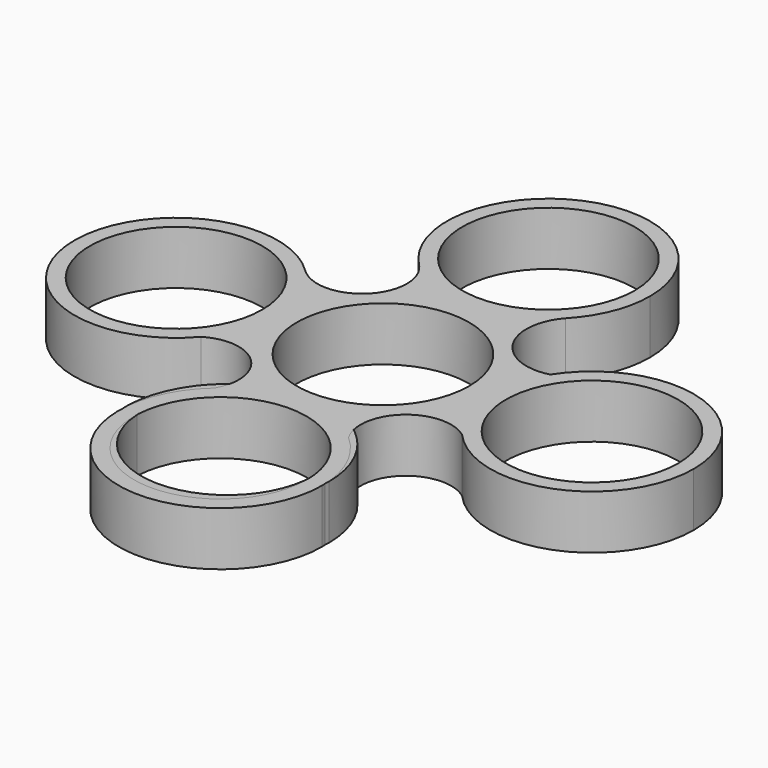
from build123d import *

# Parameters (mm, degrees)
F1_R     = 11.2
F2_DEPTH = 7
F0_R     = 11.2
F3_DEPTH = 7
F4_DEPTH = 7


with BuildPart() as f2:
    # F1 (on Top) → F2 (new body)
    with BuildSketch(Plane.XY):
        with BuildLine():
            ThreePointArc((-10.5489487054, -17.3434656757), (-4.1829342027, -37.7978862811), (13.2, -25.2781793574))
            ThreePointArc((13.2, -25.2781793574), (12.6587691404, -21.5371148232), (11.0794600228, -18.1028350728))
            ThreePointArc((11.0794600228, -18.1028350728), (9.4155916224, -16.8263147129), (8.3254465086, -15.0347941536))
            ThreePointArc((8.3254465086, -15.0347941536), (-0.2734968825, -12.0810130155), (-8.7426820596, -15.3885125074))
            ThreePointArc((-8.7426820596, -15.3885125074), (-9.5323363151, -16.4708373599), (-10.5489487054, -17.3434656757))
        make_face()
        with Locations((0, -25.2781793574)):
            Circle(F1_R, mode=Mode.SUBTRACT)
        with BuildLine():
            ThreePointArc((8.3254465086, -15.0347941536), (9.4155916224, -16.8263147129), (11.0794600228, -18.1028350728))
            ThreePointArc((11.0794600228, -18.1028350728), (9.8229739969, -16.4606297059), (8.3254465086, -15.0347941536))
        make_face()
        with BuildLine():
            ThreePointArc((-8.7426820596, -15.3885125074), (-9.6952160814, -16.3203456274), (-10.5489487054, -17.3434656757))
            ThreePointArc((-10.5489487054, -17.3434656757), (-9.5323363151, -16.4708373599), (-8.7426820596, -15.3885125074))
        make_face()
    extrude(amount=F2_DEPTH)


with BuildPart() as f2b:
    # F0 (on Top) → F2, piece 2 (new body)
    with BuildSketch(Plane.XY):
        with BuildLine():
            ThreePointArc((0, -13.2), (9.3338095117, -9.3338095117), (13.2, 0))
            ThreePointArc((13.2, 0), (12.3502529943, 4.6595333433), (9.9104165185, 8.7191538826))
            ThreePointArc((9.9104165185, 8.7191538826), (9.6502404629, 8.9831892619), (9.4054850115, 9.2615793307))
            ThreePointArc((9.4054850115, 9.2615793307), (-12.1756487951, 5.0983895906), (0, -13.2))
        make_face()
        Circle(F0_R, mode=Mode.SUBTRACT)
        with BuildLine():
            ThreePointArc((9.9104165185, 8.7191538826), (12.3502529943, 4.6595333433), (13.2, 0))
            ThreePointArc((13.2, 0), (9.3338095117, -9.3338095117), (0, -13.2))
            ThreePointArc((0, -13.2), (4.6487513187, -14.045684512), (8.701839457, -16.4743770943))
            ThreePointArc((8.701839457, -16.4743770943), (9.8552869894, -9.1053702708), (17.3070911958, -8.783940894))
            ThreePointArc((17.3070911958, -8.783940894), (14.0020834746, -1.0515702669), (16.0370673001, 7.1075640243))
            ThreePointArc((16.0370673001, 7.1075640243), (12.7649302451, 7.119536543), (9.9104165185, 8.7191538826))
        make_face()
        with BuildLine():
            ThreePointArc((9.4054850115, 9.2615793307), (9.6502404629, 8.9831892619), (9.9104165185, 8.7191538826))
            ThreePointArc((9.9104165185, 8.7191538826), (9.6617580865, 8.9939107555), (9.4054850115, 9.2615793307))
        make_face()
        with BuildLine():
            ThreePointArc((-8.713035392, -16.4842038011), (-4.6557217579, -14.0483096334), (0, -13.2))
            ThreePointArc((0, -13.2), (-12.1756487951, 5.0983895906), (9.4054850115, 9.2615793307))
            ThreePointArc((9.4054850115, 9.2615793307), (7.9028592629, 13.5328788929), (9.5432687503, 17.7531799253))
            ThreePointArc((9.5432687503, 17.7531799253), (0.2206192995, 13.6745643677), (-9.2331392194, 17.4393150255))
            ThreePointArc((-9.2331392194, 17.4393150255), (-9.5827492764, 9.3835359062), (-17.6459161995, 9.4396035665))
            ThreePointArc((-17.6459161995, 9.4396035665), (-14.7064992221, 5.1208498759), (-13.6727187067, 0))
            ThreePointArc((-13.6727187067, 0), (-14.4825079882, -4.5522168612), (-16.8125184569, -8.5458979009))
            ThreePointArc((-16.8125184569, -8.5458979009), (-9.6668383998, -9.3562532479), (-8.713035392, -16.4842038011))
        make_face()
        with BuildLine():
            ThreePointArc((8.701839457, -16.4743770943), (4.6487513187, -14.045684512), (0, -13.2))
            ThreePointArc((0, -13.2), (-4.6557217579, -14.0483096334), (-8.713035392, -16.4842038011))
            ThreePointArc((-8.713035392, -16.4842038011), (-5.441871591, -38.4260564437), (13.2, -26.4))
            ThreePointArc((13.2, -26.4), (12.02298384, -20.951343323), (8.701839457, -16.4743770943))
        make_face()
        with Locations((0, -26.4)):
            Circle(F0_R, mode=Mode.SUBTRACT)
        with BuildLine():
            ThreePointArc((20.6496444177, 11.4827510527), (18.9125441937, 8.695086028), (16.0370673001, 7.1075640243))
            ThreePointArc((16.0370673001, 7.1075640243), (14.0020834746, -1.0515702669), (17.3070911958, -8.783940894))
            ThreePointArc((17.3070911958, -8.783940894), (31.8601241625, -12.3349122015), (40.3601304412, 0))
            ThreePointArc((40.3601304412, 0), (33.8047366932, 11.405665599), (20.6496444177, 11.4827510527))
        make_face()
        with Locations((27.1601304412, 0)):
            Circle(F0_R, mode=Mode.SUBTRACT)
        with BuildLine():
            ThreePointArc((20.6496444177, 11.4827510527), (18.0760190692, 9.5769995605), (16.0370673001, 7.1075640243))
            ThreePointArc((16.0370673001, 7.1075640243), (18.9125441937, 8.695086028), (20.6496444177, 11.4827510527))
        make_face()
        with BuildLine():
            ThreePointArc((-9.2331392194, 17.4393150255), (0.2206192995, 13.6745643677), (9.5432687503, 17.7531799253))
            ThreePointArc((9.5432687503, 17.7531799253), (12.2517579862, 21.9600404202), (13.2, 26.8727205694))
            ThreePointArc((13.2, 26.8727205694), (-5.1167647153, 39.0406587204), (-9.2331392194, 17.4393150255))
        make_face()
        with Locations((0, 26.8727205694)):
            Circle(F0_R, mode=Mode.SUBTRACT)
        with BuildLine():
            ThreePointArc((-17.6459161995, 9.4396035665), (-40.0585703894, -0.6109954202), (-16.8125184569, -8.5458979009))
            ThreePointArc((-16.8125184569, -8.5458979009), (-14.4825079882, -4.5522168612), (-13.6727187067, 0))
            ThreePointArc((-13.6727187067, 0), (-14.7064992221, 5.1208498759), (-17.6459161995, 9.4396035665))
        make_face()
        with Locations((-26.8727187067, 0)):
            Circle(F0_R, mode=Mode.SUBTRACT)
    extrude(amount=F2_DEPTH)


with BuildPart() as f3:
    # F0 (on Top) → F3 (new body)
    with BuildSketch(Plane.XY):
        with BuildLine():
            ThreePointArc((0, -13.2), (9.3338095117, -9.3338095117), (13.2, 0))
            ThreePointArc((13.2, 0), (12.3502529943, 4.6595333433), (9.9104165185, 8.7191538826))
            ThreePointArc((9.9104165185, 8.7191538826), (9.6502404629, 8.9831892619), (9.4054850115, 9.2615793307))
            ThreePointArc((9.4054850115, 9.2615793307), (-12.1756487951, 5.0983895906), (0, -13.2))
        make_face()
        Circle(F0_R, mode=Mode.SUBTRACT)
        with BuildLine():
            ThreePointArc((9.9104165185, 8.7191538826), (12.3502529943, 4.6595333433), (13.2, 0))
            ThreePointArc((13.2, 0), (9.3338095117, -9.3338095117), (0, -13.2))
            ThreePointArc((0, -13.2), (4.6487513187, -14.045684512), (8.701839457, -16.4743770943))
            ThreePointArc((8.701839457, -16.4743770943), (9.8552869894, -9.1053702708), (17.3070911958, -8.783940894))
            ThreePointArc((17.3070911958, -8.783940894), (14.0020834746, -1.0515702669), (16.0370673001, 7.1075640243))
            ThreePointArc((16.0370673001, 7.1075640243), (12.7649302451, 7.119536543), (9.9104165185, 8.7191538826))
        make_face()
        with BuildLine():
            ThreePointArc((9.4054850115, 9.2615793307), (9.6502404629, 8.9831892619), (9.9104165185, 8.7191538826))
            ThreePointArc((9.9104165185, 8.7191538826), (9.6617580865, 8.9939107555), (9.4054850115, 9.2615793307))
        make_face()
        with BuildLine():
            ThreePointArc((-8.713035392, -16.4842038011), (-4.6557217579, -14.0483096334), (0, -13.2))
            ThreePointArc((0, -13.2), (-12.1756487951, 5.0983895906), (9.4054850115, 9.2615793307))
            ThreePointArc((9.4054850115, 9.2615793307), (7.9028592629, 13.5328788929), (9.5432687503, 17.7531799253))
            ThreePointArc((9.5432687503, 17.7531799253), (0.2206192995, 13.6745643677), (-9.2331392194, 17.4393150255))
            ThreePointArc((-9.2331392194, 17.4393150255), (-9.5827492764, 9.3835359062), (-17.6459161995, 9.4396035665))
            ThreePointArc((-17.6459161995, 9.4396035665), (-14.7064992221, 5.1208498759), (-13.6727187067, 0))
            ThreePointArc((-13.6727187067, 0), (-14.4825079882, -4.5522168612), (-16.8125184569, -8.5458979009))
            ThreePointArc((-16.8125184569, -8.5458979009), (-9.6668383998, -9.3562532479), (-8.713035392, -16.4842038011))
        make_face()
        with BuildLine():
            ThreePointArc((8.701839457, -16.4743770943), (4.6487513187, -14.045684512), (0, -13.2))
            ThreePointArc((0, -13.2), (-4.6557217579, -14.0483096334), (-8.713035392, -16.4842038011))
            ThreePointArc((-8.713035392, -16.4842038011), (-5.441871591, -38.4260564437), (13.2, -26.4))
            ThreePointArc((13.2, -26.4), (12.02298384, -20.951343323), (8.701839457, -16.4743770943))
        make_face()
        with Locations((0, -26.4)):
            Circle(F0_R, mode=Mode.SUBTRACT)
        with BuildLine():
            ThreePointArc((20.6496444177, 11.4827510527), (18.9125441937, 8.695086028), (16.0370673001, 7.1075640243))
            ThreePointArc((16.0370673001, 7.1075640243), (14.0020834746, -1.0515702669), (17.3070911958, -8.783940894))
            ThreePointArc((17.3070911958, -8.783940894), (31.8601241625, -12.3349122015), (40.3601304412, 0))
            ThreePointArc((40.3601304412, 0), (33.8047366932, 11.405665599), (20.6496444177, 11.4827510527))
        make_face()
        with Locations((27.1601304412, 0)):
            Circle(F0_R, mode=Mode.SUBTRACT)
        with BuildLine():
            ThreePointArc((20.6496444177, 11.4827510527), (18.0760190692, 9.5769995605), (16.0370673001, 7.1075640243))
            ThreePointArc((16.0370673001, 7.1075640243), (18.9125441937, 8.695086028), (20.6496444177, 11.4827510527))
        make_face()
        with BuildLine():
            ThreePointArc((-9.2331392194, 17.4393150255), (0.2206192995, 13.6745643677), (9.5432687503, 17.7531799253))
            ThreePointArc((9.5432687503, 17.7531799253), (12.2517579862, 21.9600404202), (13.2, 26.8727205694))
            ThreePointArc((13.2, 26.8727205694), (-5.1167647153, 39.0406587204), (-9.2331392194, 17.4393150255))
        make_face()
        with Locations((0, 26.8727205694)):
            Circle(F0_R, mode=Mode.SUBTRACT)
        with BuildLine():
            ThreePointArc((-17.6459161995, 9.4396035665), (-40.0585703894, -0.6109954202), (-16.8125184569, -8.5458979009))
            ThreePointArc((-16.8125184569, -8.5458979009), (-14.4825079882, -4.5522168612), (-13.6727187067, 0))
            ThreePointArc((-13.6727187067, 0), (-14.7064992221, 5.1208498759), (-17.6459161995, 9.4396035665))
        make_face()
        with Locations((-26.8727187067, 0)):
            Circle(F0_R, mode=Mode.SUBTRACT)
    extrude(amount=F3_DEPTH)


with BuildPart() as f4:
    # F0 (on Top) → F4 (new body)
    with BuildSketch(Plane.XY):
        with BuildLine():
            ThreePointArc((0, -13.2), (9.3338095117, -9.3338095117), (13.2, 0))
            ThreePointArc((13.2, 0), (12.3502529943, 4.6595333433), (9.9104165185, 8.7191538826))
            ThreePointArc((9.9104165185, 8.7191538826), (9.6502404629, 8.9831892619), (9.4054850115, 9.2615793307))
            ThreePointArc((9.4054850115, 9.2615793307), (-12.1756487951, 5.0983895906), (0, -13.2))
        make_face()
        Circle(F0_R, mode=Mode.SUBTRACT)
        with BuildLine():
            ThreePointArc((9.9104165185, 8.7191538826), (12.3502529943, 4.6595333433), (13.2, 0))
            ThreePointArc((13.2, 0), (9.3338095117, -9.3338095117), (0, -13.2))
            ThreePointArc((0, -13.2), (4.6487513187, -14.045684512), (8.701839457, -16.4743770943))
            ThreePointArc((8.701839457, -16.4743770943), (9.8552869894, -9.1053702708), (17.3070911958, -8.783940894))
            ThreePointArc((17.3070911958, -8.783940894), (14.0020834746, -1.0515702669), (16.0370673001, 7.1075640243))
            ThreePointArc((16.0370673001, 7.1075640243), (12.7649302451, 7.119536543), (9.9104165185, 8.7191538826))
        make_face()
        with BuildLine():
            ThreePointArc((9.4054850115, 9.2615793307), (9.6502404629, 8.9831892619), (9.9104165185, 8.7191538826))
            ThreePointArc((9.9104165185, 8.7191538826), (9.6617580865, 8.9939107555), (9.4054850115, 9.2615793307))
        make_face()
        with BuildLine():
            ThreePointArc((-8.713035392, -16.4842038011), (-4.6557217579, -14.0483096334), (0, -13.2))
            ThreePointArc((0, -13.2), (-12.1756487951, 5.0983895906), (9.4054850115, 9.2615793307))
            ThreePointArc((9.4054850115, 9.2615793307), (7.9028592629, 13.5328788929), (9.5432687503, 17.7531799253))
            ThreePointArc((9.5432687503, 17.7531799253), (0.2206192995, 13.6745643677), (-9.2331392194, 17.4393150255))
            ThreePointArc((-9.2331392194, 17.4393150255), (-9.5827492764, 9.3835359062), (-17.6459161995, 9.4396035665))
            ThreePointArc((-17.6459161995, 9.4396035665), (-14.7064992221, 5.1208498759), (-13.6727187067, 0))
            ThreePointArc((-13.6727187067, 0), (-14.4825079882, -4.5522168612), (-16.8125184569, -8.5458979009))
            ThreePointArc((-16.8125184569, -8.5458979009), (-9.6668383998, -9.3562532479), (-8.713035392, -16.4842038011))
        make_face()
        with BuildLine():
            ThreePointArc((8.701839457, -16.4743770943), (4.6487513187, -14.045684512), (0, -13.2))
            ThreePointArc((0, -13.2), (-4.6557217579, -14.0483096334), (-8.713035392, -16.4842038011))
            ThreePointArc((-8.713035392, -16.4842038011), (-5.441871591, -38.4260564437), (13.2, -26.4))
            ThreePointArc((13.2, -26.4), (12.02298384, -20.951343323), (8.701839457, -16.4743770943))
        make_face()
        with Locations((0, -26.4)):
            Circle(F0_R, mode=Mode.SUBTRACT)
        with BuildLine():
            ThreePointArc((20.6496444177, 11.4827510527), (18.9125441937, 8.695086028), (16.0370673001, 7.1075640243))
            ThreePointArc((16.0370673001, 7.1075640243), (14.0020834746, -1.0515702669), (17.3070911958, -8.783940894))
            ThreePointArc((17.3070911958, -8.783940894), (31.8601241625, -12.3349122015), (40.3601304412, 0))
            ThreePointArc((40.3601304412, 0), (33.8047366932, 11.405665599), (20.6496444177, 11.4827510527))
        make_face()
        with Locations((27.1601304412, 0)):
            Circle(F0_R, mode=Mode.SUBTRACT)
        with BuildLine():
            ThreePointArc((20.6496444177, 11.4827510527), (18.0760190692, 9.5769995605), (16.0370673001, 7.1075640243))
            ThreePointArc((16.0370673001, 7.1075640243), (18.9125441937, 8.695086028), (20.6496444177, 11.4827510527))
        make_face()
        with BuildLine():
            ThreePointArc((-9.2331392194, 17.4393150255), (0.2206192995, 13.6745643677), (9.5432687503, 17.7531799253))
            ThreePointArc((9.5432687503, 17.7531799253), (12.2517579862, 21.9600404202), (13.2, 26.8727205694))
            ThreePointArc((13.2, 26.8727205694), (-5.1167647153, 39.0406587204), (-9.2331392194, 17.4393150255))
        make_face()
        with Locations((0, 26.8727205694)):
            Circle(F0_R, mode=Mode.SUBTRACT)
        with BuildLine():
            ThreePointArc((-17.6459161995, 9.4396035665), (-40.0585703894, -0.6109954202), (-16.8125184569, -8.5458979009))
            ThreePointArc((-16.8125184569, -8.5458979009), (-14.4825079882, -4.5522168612), (-13.6727187067, 0))
            ThreePointArc((-13.6727187067, 0), (-14.7064992221, 5.1208498759), (-17.6459161995, 9.4396035665))
        make_face()
        with Locations((-26.8727187067, 0)):
            Circle(F0_R, mode=Mode.SUBTRACT)
    extrude(amount=F4_DEPTH)


solid = Compound([f2.part, f2b.part, f3.part, f4.part])
